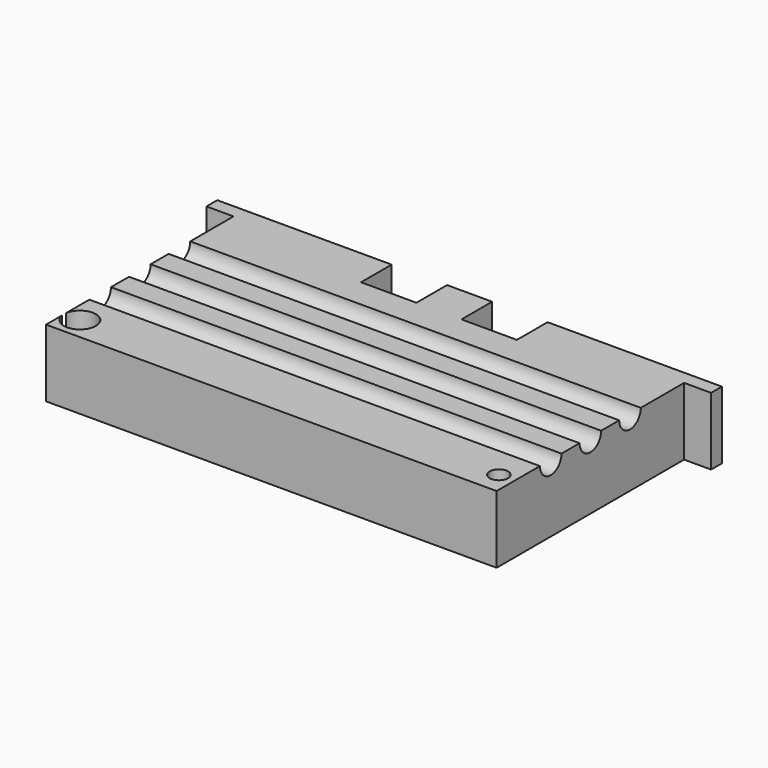
from build123d import *

# Parameters (mm, degrees)
F0_R     = 2.05
F1_DEPTH = 15
F2_R     = 3
F3_DEPTH = 121
F4_R     = 3.55
F4_R_2   = 2.05
F5_DEPTH = 4


with BuildPart() as f1:
    # F0 (on Top) → F1 (new body)
    with BuildSketch(Plane.XY):
        Polygon((-43.625293, -11.107708), (-82.325293, -11.107708), (-82.325293, -14.107708), (-76.325293, -14.107708), (-76.325293, -66.107708), (23.674707, -66.107708), (23.674707, -14.107708), (29.674707, -14.107708), (29.674707, -11.107708), (-9.025293, -11.107708), (-9.025293, -19.607708), (-21.325293, -19.607708), (-21.325293, -11.107708), (-31.325293, -11.107708), (-31.325293, -19.607708), (-43.625293, -19.607708), align=None)
        with Locations((-72.825293, -61.107708)):
            Circle(F0_R, mode=Mode.SUBTRACT)
        with Locations((20.174707, -61.107708)):
            Circle(F0_R, mode=Mode.SUBTRACT)
    extrude(amount=F1_DEPTH)

    # F2 (on face) → F3 (cut)
    with BuildSketch(Plane(origin=(-76.325293, 0, 0), x_dir=(0, -1, 0), z_dir=(-1, 0, 0))):
        with Locations((29.107708, 15)):
            Circle(F2_R)
        with Locations((51.107708, 15)):
            Circle(F2_R)
        with Locations((40.107708, 15)):
            Circle(F2_R)
    extrude(amount=-F3_DEPTH, mode=Mode.SUBTRACT)

    # F4 (on face) → F5 (cut)
    with BuildSketch(Plane.XY.offset(15)):
        with Locations((-72.825293, -61.107708)):
            Circle(F4_R)
        with Locations((-72.825293, -61.107708)):
            Circle(F4_R_2, mode=Mode.SUBTRACT)
    extrude(amount=-F5_DEPTH, mode=Mode.SUBTRACT)


solid = f1.part
